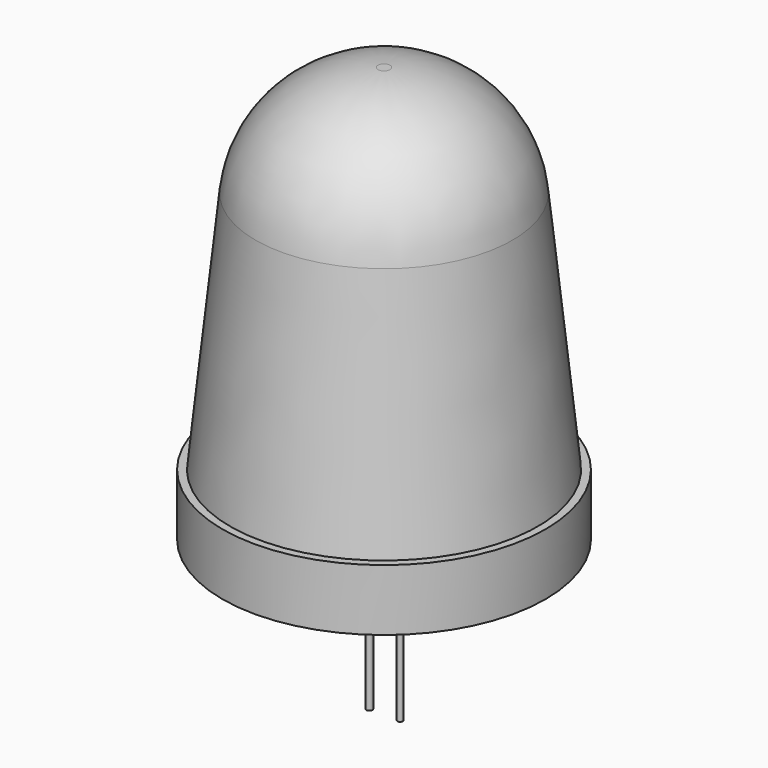
from build123d import *

# Parameters (mm, degrees)
F2_R     = 4
F3_R     = 0.1
F3_R_2   = 0.089102
F4_DEPTH = 5


with BuildPart() as f1:
    # F0 (on Front) → F1 (revolve)
    with BuildSketch(Plane.XZ):
        Polygon((-5.25, 2), (-5.25, 0), (0, 0), (0, 13.5), (-3.8, 13.5), (-5, 2), align=None)
    revolve(axis=Axis((0, 0, 6.75), (0, 0, -1)))

    # F2
    f2_edges = [f1.edges().sort_by_distance(p)[0] for p in [
        (3.8, 0, 13.5),
    ]]
    fillet(f2_edges, radius=F2_R)


with BuildPart() as f4:
    # F3 (on face) → F4 (new body)
    with BuildSketch(Plane(origin=(0, 0, 0), x_dir=(1, 0, 0), z_dir=(0, 0, -1))):
        with Locations((-0.47543, 0)):
            Circle(F3_R)
        with Locations((0.524872, 0)):
            Circle(F3_R_2)
    extrude(amount=F4_DEPTH)


solid = Compound([f1.part, f4.part])
